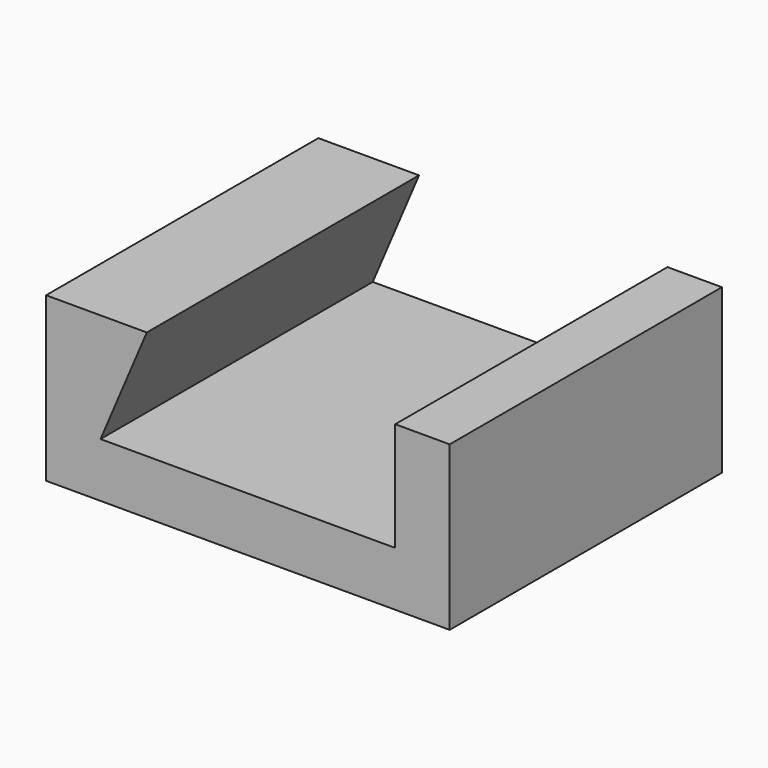
from build123d import *

# Parameters (mm, degrees)
F0_W     = 59.3
F0_H     = 50
F1_DEPTH = 12
F3_DEPTH = 50


with BuildPart() as f1:
    # F0 (on Top) → F1 (new body, symmetric)
    with BuildSketch(Plane.XY):
        with Locations((3.65, 0)):
            Rectangle(F0_W, F0_H)
    extrude(amount=F1_DEPTH, both=True)

    # F2 (on face) → F3 (cut)
    with BuildSketch(Plane.XZ.offset(25)):
        Polygon((25.3, -4), (25.3, 12), (-11.2, 12), (-18, -4), align=None)
    extrude(amount=-F3_DEPTH, mode=Mode.SUBTRACT)


solid = f1.part
